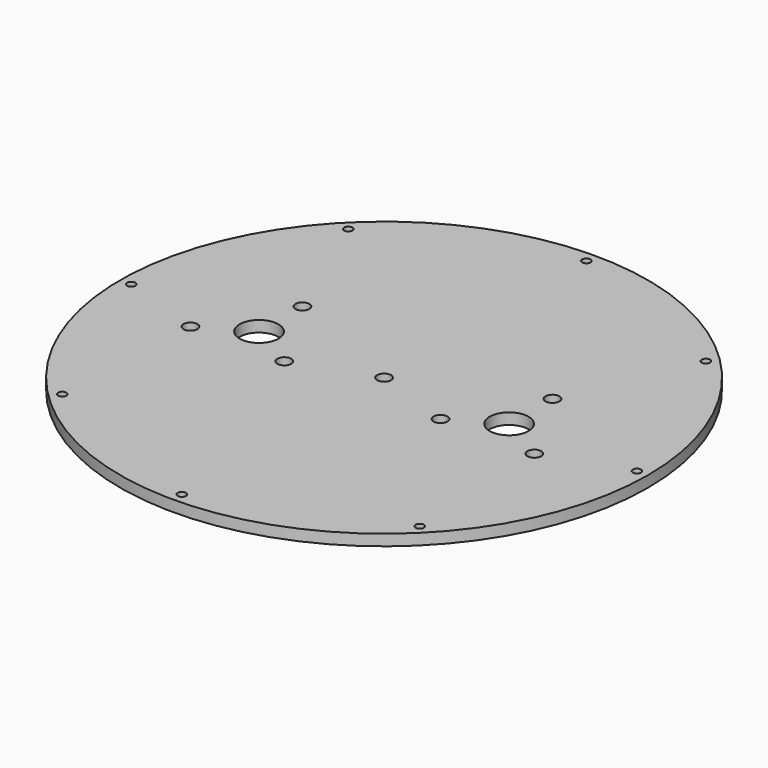
from build123d import *

# Parameters (mm, degrees)
SKETCH_R   = 95
SKETCH_R_2 = 7
SKETCH_R_3 = 1.5
SKETCH_R_4 = 2.5
PAD_DEPTH  = 4


with BuildPart() as part:
    # Sketch → Pad (new body)
    with BuildSketch(Plane.XY):
        Circle(SKETCH_R)
        with Locations((-45, 0)):
            Circle(SKETCH_R_2, mode=Mode.SUBTRACT)
        with Locations((45, 0)):
            Circle(SKETCH_R_2, mode=Mode.SUBTRACT)
        with Locations((64.346717, 64.346717)):
            Circle(SKETCH_R_3, mode=Mode.SUBTRACT)
        with Locations((-64.346717, 64.346717)):
            Circle(SKETCH_R_3, mode=Mode.SUBTRACT)
        with Locations((-64.346717, -64.346717)):
            Circle(SKETCH_R_3, mode=Mode.SUBTRACT)
        with Locations((64.346717, -64.346717)):
            Circle(SKETCH_R_3, mode=Mode.SUBTRACT)
        with Locations((-45, 19.5)):
            Circle(SKETCH_R_4, mode=Mode.SUBTRACT)
        with Locations((-28.112505, -9.75)):
            Circle(SKETCH_R_4, mode=Mode.SUBTRACT)
        with Locations((-61.887495, -9.75)):
            Circle(SKETCH_R_4, mode=Mode.SUBTRACT)
        with Locations((45, 19.5)):
            Circle(SKETCH_R_4, mode=Mode.SUBTRACT)
        with Locations((28.112505, -9.75)):
            Circle(SKETCH_R_4, mode=Mode.SUBTRACT)
        with Locations((61.887495, -9.75)):
            Circle(SKETCH_R_4, mode=Mode.SUBTRACT)
        Circle(SKETCH_R_4, mode=Mode.SUBTRACT)
        with Locations((91, 0)):
            Circle(SKETCH_R_3, mode=Mode.SUBTRACT)
        with Locations((-91, 0)):
            Circle(SKETCH_R_3, mode=Mode.SUBTRACT)
        with Locations((0, 91)):
            Circle(SKETCH_R_3, mode=Mode.SUBTRACT)
        with Locations((0, -91)):
            Circle(SKETCH_R_3, mode=Mode.SUBTRACT)
    extrude(amount=PAD_DEPTH)


solid = part.part
